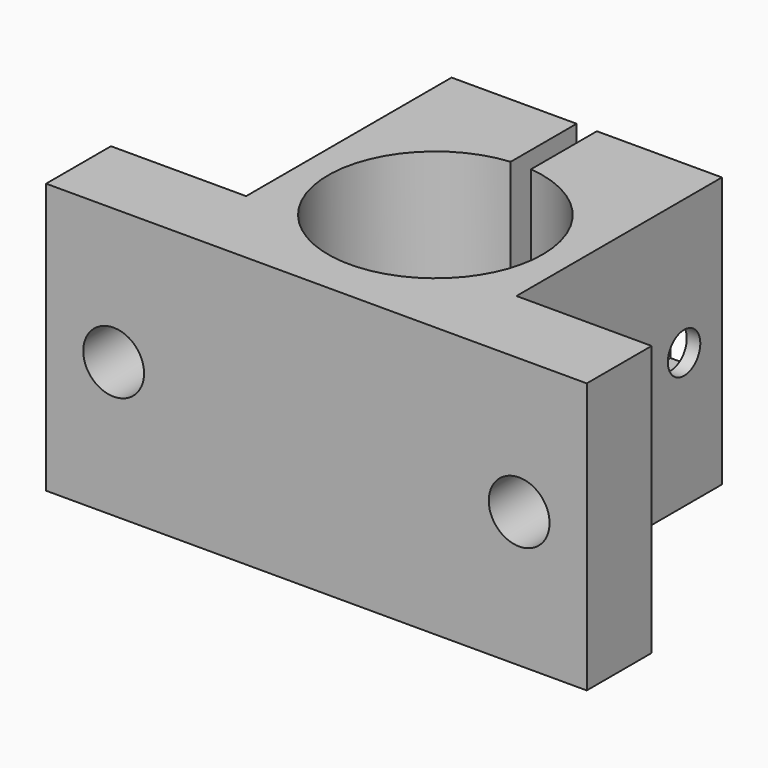
from build123d import *

# Parameters (mm, degrees)
F1_DEPTH = 20
F2_R     = 1.5
F3_DEPTH = 20
F4_W     = 2.8
F4_H     = 6
F5_DEPTH = 7.5
F6_R     = 2.25
F7_DEPTH = 6


with BuildPart() as f1:
    # F0 (on Top) → F1 (new body)
    with BuildSketch(Plane.XY):
        with BuildLine():
            Line((-38.333333, 13.652778), (-38.333333, -5.347222))
            Line((-38.333333, -5.347222), (-34.498064, -5.347222))
            ThreePointArc((-34.498064, -5.347222), (-35.652397, 2.724457), (-29.083333, 7.554765))
            Line((-29.083333, 7.554765), (-29.083333, 13.652778))
            Line((-29.083333, 13.652778), (-38.333333, 13.652778))
        make_face()
        with BuildLine():
            Line((-48.333333, -5.347222), (-48.333333, -11.347222))
            Line((-48.333333, -11.347222), (-8.333333, -11.347222))
            Line((-8.333333, -11.347222), (-8.333333, -5.347222))
            Line((-8.333333, -5.347222), (-18.333333, -5.347222))
            Line((-18.333333, -5.347222), (-22.168602, -5.347222))
            ThreePointArc((-22.168602, -5.347222), (-28.333333, -8.284722), (-34.498064, -5.347222))
            Line((-34.498064, -5.347222), (-38.333333, -5.347222))
            Line((-38.333333, -5.347222), (-48.333333, -5.347222))
        make_face()
        with BuildLine():
            Line((-22.168602, -5.347222), (-18.333333, -5.347222))
            Line((-18.333333, -5.347222), (-18.333333, 13.652778))
            Line((-18.333333, 13.652778), (-27.583333, 13.652778))
            Line((-27.583333, 13.652778), (-27.583333, 7.554765))
            ThreePointArc((-27.583333, 7.554765), (-22.461492, 4.993694), (-20.395833, -0.347222))
            ThreePointArc((-20.395833, -0.347222), (-20.852142, -2.999707), (-22.168602, -5.347222))
        make_face()
    extrude(amount=F1_DEPTH)

    # F2 (on face) → F3 (cut)
    with BuildSketch(Plane(origin=(-38.333333, 0, 0), x_dir=(0, -1, 0), z_dir=(-1, 0, 0))):
        with Locations((-10.152778, 10)):
            Circle(F2_R)
    extrude(amount=-F3_DEPTH, mode=Mode.SUBTRACT)

    # F4 (on face) → F5 (cut)
    with BuildSketch(Plane(origin=(0, 13.652778, 0), x_dir=(-1, 0, 0), z_dir=(0, 1, 0))):
        with Locations((20.733333, 10)):
            Rectangle(F4_W, F4_H)
    extrude(amount=-F5_DEPTH, mode=Mode.SUBTRACT)

    # F6 (on face) → F7 (cut)
    with BuildSketch(Plane(origin=(0, -5.347222, 0), x_dir=(-1, 0, 0), z_dir=(0, 1, 0))):
        with Locations((43.333333, 10)):
            Circle(F6_R)
        with Locations((13.333333, 10)):
            Circle(F6_R)
    extrude(amount=-F7_DEPTH, mode=Mode.SUBTRACT)


solid = f1.part
